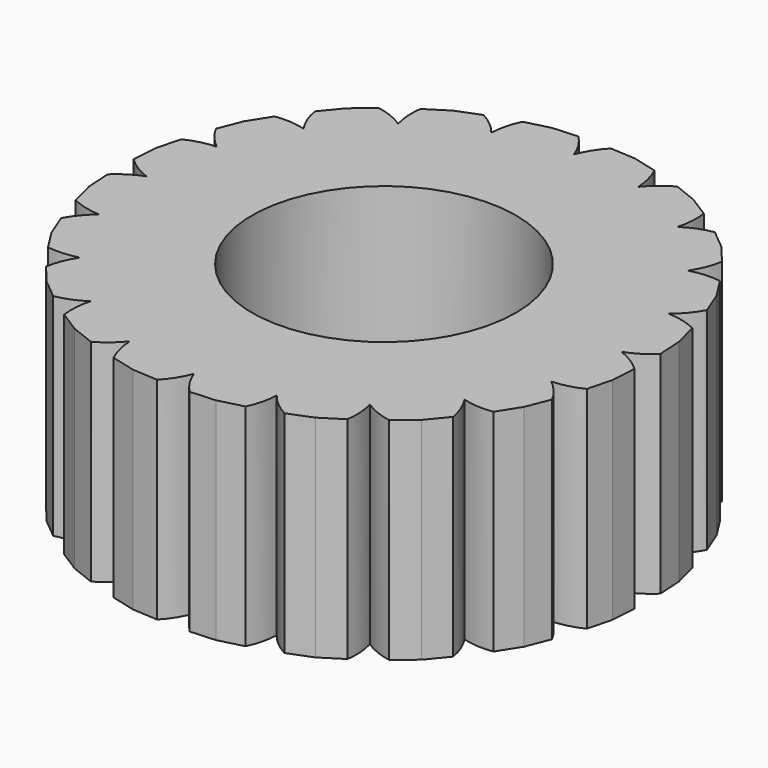
from build123d import *

# Parameters (mm, degrees)
F0_R     = 7.9375
F1_DEPTH = 12.7


with BuildPart() as f1:
    # F0 (on Top) → F1 (new body)
    with BuildSketch(Plane.XY):
        with BuildLine():
            ThreePointArc((0.977976, 15.844847), (0.407007, 15.117656), (0, 14.2875))
            ThreePointArc((0, 14.2875), (-0.407007, 15.117656), (-0.977976, 15.844847))
            Line((-0.977976, 15.844847), (-2.49475, 15.751229))
            Line((-2.49475, 15.751229), (-3.966216, 15.371557))
            ThreePointArc((-3.966216, 15.371557), (-4.284526, 14.503517), (-4.41508, 13.58822))
            ThreePointArc((-4.41508, 13.58822), (-5.058699, 14.251973), (-5.826438, 14.767134))
            Line((-5.826438, 14.767134), (-7.240045, 14.209389))
            Line((-7.240045, 14.209389), (-8.522168, 13.393591))
            ThreePointArc((-8.522168, 13.393591), (-8.55666, 12.469673), (-8.397982, 11.55883))
            ThreePointArc((-8.397982, 11.55883), (-9.215211, 11.991208), (-10.104567, 12.243911))
            Line((-10.104567, 12.243911), (-11.276635, 11.276635))
            Line((-11.276635, 11.276635), (-12.243911, 10.104567))
            ThreePointArc((-12.243911, 10.104567), (-11.991208, 9.215211), (-11.55883, 8.397982))
            ThreePointArc((-11.55883, 8.397982), (-12.469673, 8.55666), (-13.393591, 8.522168))
            Line((-13.393591, 8.522168), (-14.209389, 7.240045))
            Line((-14.209389, 7.240045), (-14.767134, 5.826438))
            ThreePointArc((-14.767134, 5.826438), (-14.251973, 5.058699), (-13.58822, 4.41508))
            ThreePointArc((-13.58822, 4.41508), (-14.503517, 4.284526), (-15.371557, 3.966216))
            Line((-15.371557, 3.966216), (-15.751229, 2.49475))
            Line((-15.751229, 2.49475), (-15.844847, 0.977976))
            ThreePointArc((-15.844847, 0.977976), (-15.117656, 0.407007), (-14.2875, 0))
            ThreePointArc((-14.2875, 0), (-15.117656, -0.407007), (-15.844847, -0.977976))
            Line((-15.844847, -0.977976), (-15.751229, -2.49475))
            Line((-15.751229, -2.49475), (-15.371557, -3.966216))
            ThreePointArc((-15.371557, -3.966216), (-14.503517, -4.284526), (-13.58822, -4.41508))
            ThreePointArc((-13.58822, -4.41508), (-14.251973, -5.058699), (-14.767134, -5.826438))
            Line((-14.767134, -5.826438), (-14.209389, -7.240045))
            Line((-14.209389, -7.240045), (-13.393591, -8.522168))
            ThreePointArc((-13.393591, -8.522168), (-12.469673, -8.55666), (-11.55883, -8.397982))
            ThreePointArc((-11.55883, -8.397982), (-11.991208, -9.215211), (-12.243911, -10.104567))
            Line((-12.243911, -10.104567), (-11.276635, -11.276635))
            Line((-11.276635, -11.276635), (-10.104567, -12.243911))
            ThreePointArc((-10.104567, -12.243911), (-9.215211, -11.991208), (-8.397982, -11.55883))
            ThreePointArc((-8.397982, -11.55883), (-8.55666, -12.469673), (-8.522168, -13.393591))
            Line((-8.522168, -13.393591), (-7.240045, -14.209389))
            Line((-7.240045, -14.209389), (-5.826438, -14.767134))
            ThreePointArc((-5.826438, -14.767134), (-5.058699, -14.251973), (-4.41508, -13.58822))
            ThreePointArc((-4.41508, -13.58822), (-4.284526, -14.503517), (-3.966216, -15.371557))
            Line((-3.966216, -15.371557), (-2.49475, -15.751229))
            Line((-2.49475, -15.751229), (-0.977976, -15.844847))
            ThreePointArc((-0.977976, -15.844847), (-0.407007, -15.117656), (0, -14.2875))
            ThreePointArc((0, -14.2875), (0.407007, -15.117656), (0.977976, -15.844847))
            Line((0.977976, -15.844847), (2.49475, -15.751229))
            Line((2.49475, -15.751229), (3.966216, -15.371557))
            ThreePointArc((3.966216, -15.371557), (4.284526, -14.503517), (4.41508, -13.58822))
            ThreePointArc((4.41508, -13.58822), (5.058699, -14.251973), (5.826438, -14.767134))
            Line((5.826438, -14.767134), (7.240045, -14.209389))
            Line((7.240045, -14.209389), (8.522168, -13.393591))
            ThreePointArc((8.522168, -13.393591), (8.55666, -12.469673), (8.397982, -11.55883))
            ThreePointArc((8.397982, -11.55883), (9.215211, -11.991208), (10.104567, -12.243911))
            Line((10.104567, -12.243911), (11.276635, -11.276635))
            Line((11.276635, -11.276635), (12.243911, -10.104567))
            ThreePointArc((12.243911, -10.104567), (11.991208, -9.215211), (11.55883, -8.397982))
            ThreePointArc((11.55883, -8.397982), (12.469673, -8.55666), (13.393591, -8.522168))
            Line((13.393591, -8.522168), (14.209389, -7.240045))
            Line((14.209389, -7.240045), (14.767134, -5.826438))
            ThreePointArc((14.767134, -5.826438), (14.251973, -5.058699), (13.58822, -4.41508))
            ThreePointArc((13.58822, -4.41508), (14.503517, -4.284526), (15.371557, -3.966216))
            Line((15.371557, -3.966216), (15.751229, -2.49475))
            Line((15.751229, -2.49475), (15.844847, -0.977976))
            ThreePointArc((15.844847, -0.977976), (15.117656, -0.407007), (14.2875, 0))
            ThreePointArc((14.2875, 0), (15.117656, 0.407007), (15.844847, 0.977976))
            Line((15.844847, 0.977976), (15.751229, 2.49475))
            Line((15.751229, 2.49475), (15.371557, 3.966216))
            ThreePointArc((15.371557, 3.966216), (14.503517, 4.284526), (13.58822, 4.41508))
            ThreePointArc((13.58822, 4.41508), (14.251973, 5.058699), (14.767134, 5.826438))
            Line((14.767134, 5.826438), (14.209389, 7.240045))
            Line((14.209389, 7.240045), (13.393591, 8.522168))
            ThreePointArc((13.393591, 8.522168), (12.469673, 8.55666), (11.55883, 8.397982))
            ThreePointArc((11.55883, 8.397982), (11.991208, 9.215211), (12.243911, 10.104567))
            Line((12.243911, 10.104567), (11.276635, 11.276635))
            Line((11.276635, 11.276635), (10.104567, 12.243911))
            ThreePointArc((10.104567, 12.243911), (9.215211, 11.991208), (8.397982, 11.55883))
            ThreePointArc((8.397982, 11.55883), (8.55666, 12.469673), (8.522168, 13.393591))
            Line((8.522168, 13.393591), (7.240045, 14.209389))
            Line((7.240045, 14.209389), (5.826438, 14.767134))
            ThreePointArc((5.826438, 14.767134), (5.058699, 14.251973), (4.41508, 13.58822))
            ThreePointArc((4.41508, 13.58822), (4.284526, 14.503517), (3.966216, 15.371557))
            Line((3.966216, 15.371557), (2.49475, 15.751229))
            Line((2.49475, 15.751229), (0.977976, 15.844847))
        make_face()
        Circle(F0_R, mode=Mode.SUBTRACT)
    extrude(amount=F1_DEPTH)


solid = f1.part
